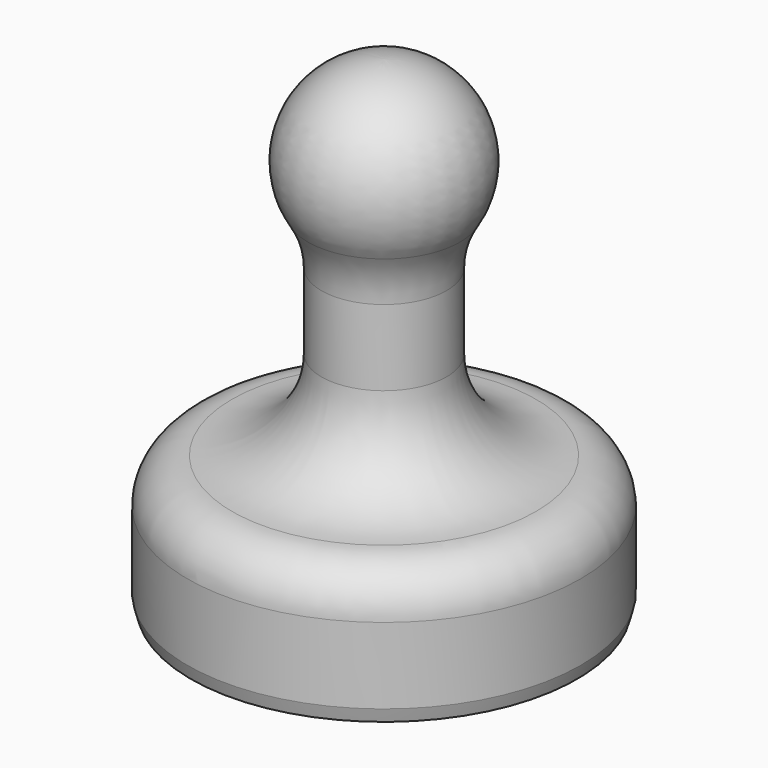
from build123d import *


with BuildPart() as f1:
    # F0 (on Front) → F1 (revolve)
    with BuildSketch(Plane.XZ):
        with BuildLine():
            Line((-5.55, 3.5), (1, 3.5))
            Line((1, 3.5), (1, 27.010888))
            ThreePointArc((1, 27.010888), (-3.368613, 24.44301), (-3.25, 19.376974))
            ThreePointArc((-3.25, 19.376974), (-2.691154, 18.112367), (-2.5, 16.743061))
            Line((-2.5, 16.743061), (-2.5, 12.5))
            ThreePointArc((-2.5, 12.5), (-3.964466, 8.964466), (-7.5, 7.5))
            ThreePointArc((-7.5, 7.5), (-9.267767, 6.767767), (-10, 5))
            Line((-10, 5), (-10, 0.744819))
            Line((-10, 0.744819), (-9.8, 0))
            Line((-9.8, 0), (-5.55, 0))
            Line((-5.55, 0), (-5.55, 3.5))
        make_face()
    revolve(axis=Axis((1, 0, 15.255444), (0, 0, 1)))


solid = f1.part
